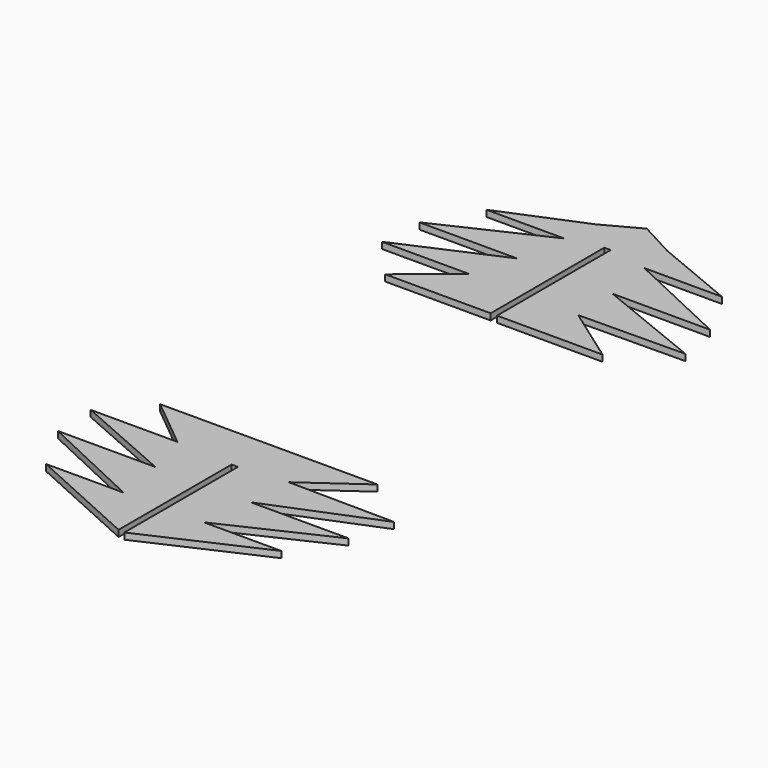
from build123d import *

# Parameters (mm, degrees)
F1_DEPTH = 3.9878


with BuildPart() as f1:
    # F0 (on Top) → F1 (new body)
    with BuildSketch(Plane.XY):
        Polygon((-295.663806, 88.404388), (-247.104986, 88.404388), (-298.411416, 109.70524), (-320.764986, 121.744072), (-343.118556, 109.70524), (-394.424986, 88.404388), (-345.866167, 88.404388), (-411.808819, 57.48541), (-350.674488, 57.48541), (-413.182617, 30.009756), (-358.917311, 30.009756), (-390.481301, 4.112971), (-324.441301, 4.112971), (-324.441301, 93.012971), (-320.453501, 93.012971), (-320.453501, 4.112971), (-254.413501, 4.112971), (-289.803567, 29.306123), (-223.267356, 30.009756), (-290.855484, 57.48541), (-229.721154, 57.48541), align=None)
        Polygon((-411.808819, -225.352414), (-345.866167, -256.271393), (-394.424986, -256.271393), (-323.286235, -288.469919), (-323.286235, -200.047292), (-319.298435, -200.047292), (-319.298435, -288.947292), (-247.104986, -256.271393), (-295.663806, -256.271393), (-229.721154, -225.352414), (-290.855484, -225.352414), (-223.267356, -197.876761), (-289.803567, -197.173128), (-254.413501, -171.979976), (-390.481301, -171.979976), (-358.917311, -197.876761), (-413.182617, -197.876761), (-350.674488, -225.352414), align=None)
    extrude(amount=F1_DEPTH)


solid = f1.part
